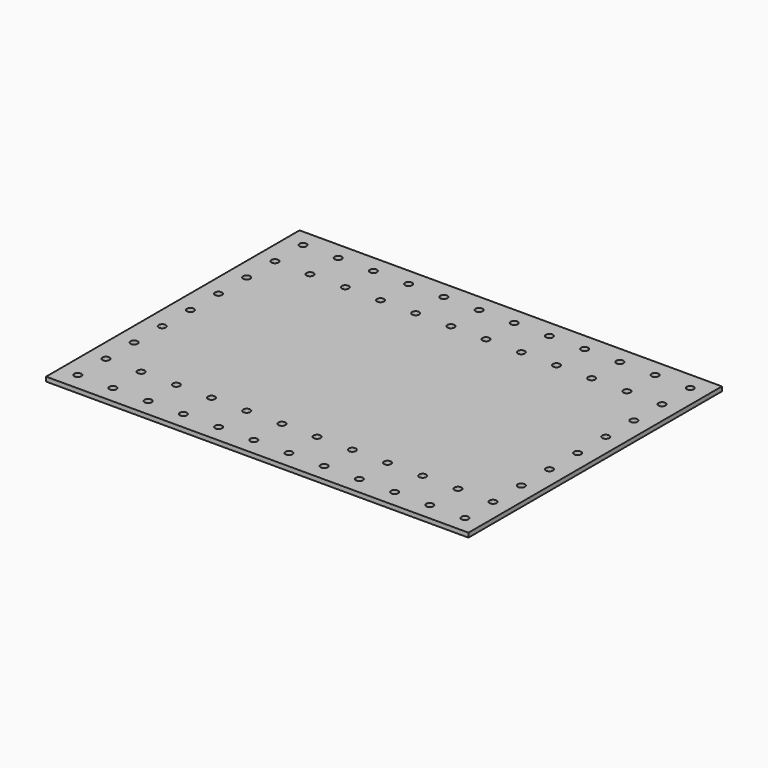
from build123d import *

# Parameters (mm, degrees)
F0_W     = 304.8
F0_H     = 228.6
F1_DEPTH = 3.175
F3_D     = 5.1054


with BuildPart() as f1:
    # F0 (on Top) → F1 (new body)
    with BuildSketch(Plane.XY):
        with Locations((60.41754, 73.715768)):
            Rectangle(F0_W, F0_H)
    extrude(amount=F1_DEPTH)

    # F3 (through all)
    with Locations(Plane.XY.offset(3.175)):
        with Locations((-28.48246, -27.884232), (98.51754, 149.915768), (-79.28246, -27.884232), (200.11754, 73.715768), (73.11754, 175.315768), (149.31754, 175.315768), (123.91754, 175.315768), (-79.28246, -2.484232), (174.71754, -2.484232), (200.11754, -2.484232), (123.91754, -2.484232), (200.11754, 48.315768), (-28.48246, 175.315768), (-3.08246, -2.484232), (200.11754, 149.915768), (73.11754, -27.884232), (200.11754, 22.915768), (22.31754, 149.915768), (-28.48246, -2.484232), (123.91754, -27.884232), (98.51754, -27.884232), (98.51754, 175.315768), (123.91754, 149.915768), (-79.28246, 175.315768), (174.71754, 149.915768), (-53.88246, 149.915768), (22.31754, -2.484232), (-79.28246, 73.715768), (149.31754, 149.915768), (-79.28246, 22.915768), (47.71754, -27.884232), (200.11754, 124.515768), (-79.28246, 99.115768), (174.71754, -27.884232), (22.31754, 175.315768), (47.71754, 149.915768), (200.11754, 175.315768), (-3.08246, 149.915768), (47.71754, -2.484232), (-53.88246, -27.884232), (149.31754, -2.484232), (73.11754, -2.484232), (22.31754, -27.884232), (-79.28246, 124.515768), (200.11754, 99.115768), (174.71754, 175.315768), (-53.88246, -2.484232), (-53.88246, 175.315768), (-79.28246, 48.315768), (200.11754, -27.884232), (98.51754, -2.484232), (-3.08246, -27.884232), (-28.48246, 149.915768), (47.71754, 175.315768), (149.31754, -27.884232), (-3.08246, 175.315768), (-79.28246, 149.915768), (73.11754, 149.915768)):
            Hole(F3_D / 2)


solid = f1.part
